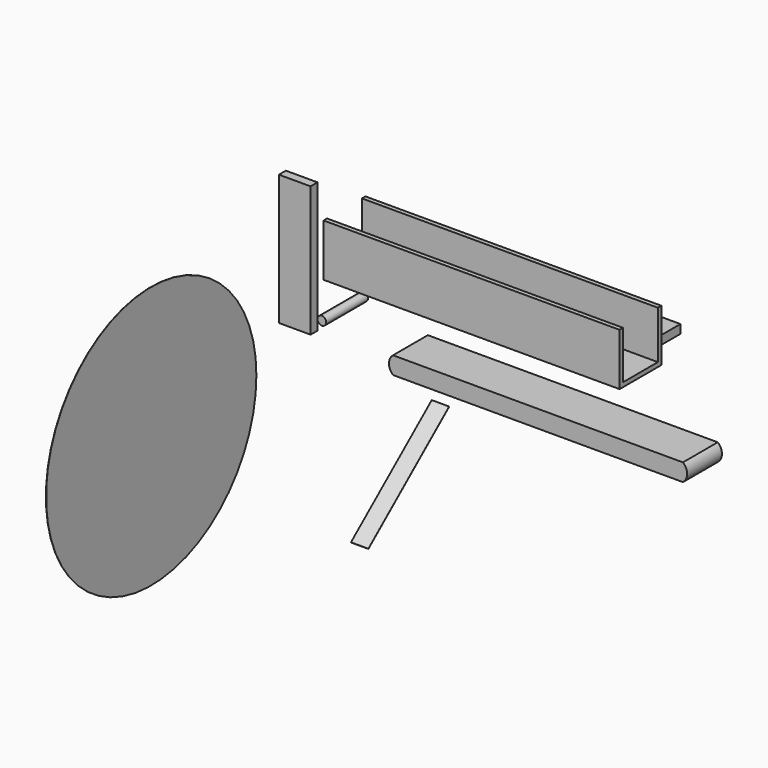
from build123d import *

# Parameters (mm, degrees)
F0_W      = 431.8
F0_H      = 76.2
F1_DEPTH  = 6.35
F2_W      = 431.8
F2_H      = 6.35
F3_DEPTH  = 69.85
F4_W      = 406.4
F4_H      = 44.45
F5_DEPTH  = 12.7
F6_R      = 6.35
F7_DEPTH  = 76.2
F9_DEPTH  = 63.5
F10_W     = 46.143317
F10_H     = 190.5
F11_DEPTH = 12.7
F13_DEPTH = 25.4
F14_R     = 191.77
F15_DEPTH = 0.254


with BuildPart() as f1:
    # F0 (on Top) → F1 (new body)
    with BuildSketch(Plane.XY):
        with Locations((12.38066, -26.983879)):
            Rectangle(F0_W, F0_H)
    extrude(amount=F1_DEPTH)

    # F2 (on face) → F3 (join)
    with BuildSketch(Plane.XY.offset(6.35)):
        with Locations((12.38066, 7.941121)):
            Rectangle(F2_W, F2_H)
        with Locations((12.38066, -61.908879)):
            Rectangle(F2_W, F2_H)
    extrude(amount=F3_DEPTH)


with BuildPart() as f5:
    # F4 (on Top) → F5 (new body)
    with BuildSketch(Plane.XY):
        with Locations((-5.947866, 62.418744)):
            Rectangle(F4_W, F4_H)
    extrude(amount=F5_DEPTH)


with BuildPart() as f7:
    # F6 (on Front) → F7 (new body)
    with BuildSketch(Plane.XZ):
        with Locations((-197.11858, -45.929994)):
            Circle(F6_R)
    extrude(amount=F7_DEPTH)


with BuildPart() as f9:
    # F8 (on Front) → F9 (new body)
    with BuildSketch(Plane.XZ):
        with BuildLine():
            ThreePointArc((319.424903, -90.408714), (325.53391, -77.708714), (319.424903, -65.008714))
            Line((319.424903, -65.008714), (-103.514101, -65.008714))
            ThreePointArc((-103.514101, -65.008714), (-109.439342, -77.797623), (-103.144498, -90.408714))
            Line((-103.144498, -90.408714), (319.424903, -90.408714))
        make_face()
    extrude(amount=F9_DEPTH)


with BuildPart() as f11:
    # F10 (on Front) → F11 (new body)
    with BuildSketch(Plane.XZ):
        with Locations((-287.52032, -16.310006)):
            Rectangle(F10_W, F10_H)
    extrude(amount=F11_DEPTH)


with BuildPart() as f13:
    # F12 (on Right) → F13 (new body)
    with BuildSketch(Plane.YZ):
        Polygon((-122.250272, -65.024962), (-269.584003, -187.778799), (-269.584003, -188.032799), (-122.250272, -65.278962), align=None)
    extrude(amount=F13_DEPTH)


with BuildPart() as f15:
    # F14 (on face) → F15 (new body)
    with BuildSketch(Plane.YZ.offset(25.4)):
        with Locations((-665.869236, 117.940322)):
            Circle(F14_R)
    extrude(amount=F15_DEPTH)


solid = Compound([f1.part, f5.part, f7.part, f9.part, f11.part, f13.part, f15.part])
